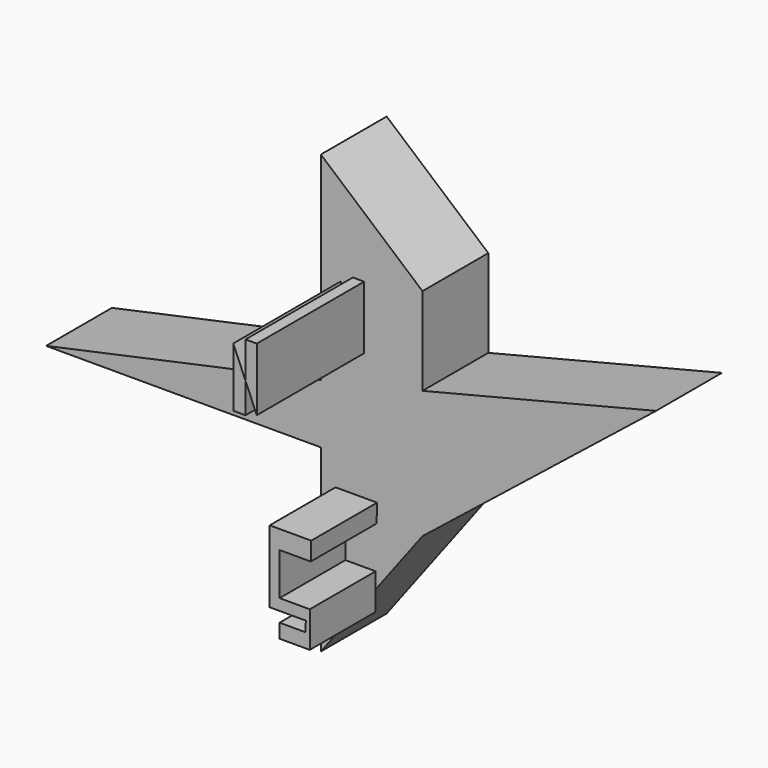
from build123d import *

# Parameters (mm, degrees)
F1_DEPTH = 25.4
F3_DEPTH = 41.402
F5_DEPTH = 25.4


with BuildPart() as f1:
    # F0 (on Front) → F1 (new body)
    with BuildSketch(Plane.XZ):
        Polygon((31.365082, 37.405583), (0, 64.327464), (0, 3.049383), (-84.801883, -15.246916), (0, -15.246916), (0, -70.716642), (31.365082, -29.162369), (103.466924, 28.315699), (31.365082, 10.309819), align=None)
    extrude(amount=F1_DEPTH)


with BuildPart() as f3:
    # F2 (on face) → F3 (new body)
    with BuildSketch(Plane.XZ.offset(25.4)):
        Polygon((9.874192, 34.124047), (9.874192, 22.890702), (13.359201, 14.66608), (13.359201, 34.124047), align=None)
        Polygon((6.098765, 31.80071), (6.098765, 13.50441), (9.874192, 13.50441), (9.874192, 22.890702), align=None)
    extrude(amount=F3_DEPTH)


with BuildPart() as f5:
    # F4 (on face) → F5 (new body)
    with BuildSketch(Plane.XZ.offset(25.4)):
        Polygon((7.588764, -30.348621), (17.200813, -30.348621), (17.353797, -24.626331), (4.537863, -24.626331), (4.537863, -29.162369), (4.537863, -46.902414), (7.588764, -46.902414), (15.682541, -46.902414), (15.572592, -50.085172), (16.910398, -48.312769), (16.910398, -43.417405), (7.588764, -43.417405), (7.588764, -38.032392), align=None)
        Polygon((16.910398, -54.453265), (16.910398, -48.312769), (15.572592, -50.085172), (12.275564, -54.453265), align=None)
        Polygon((12.275564, -54.453265), (15.572592, -50.085172), (7.588764, -50.085172), (7.588764, -54.453265), align=None)
    extrude(amount=F5_DEPTH)


solid = Compound([f1.part, f3.part, f5.part])
